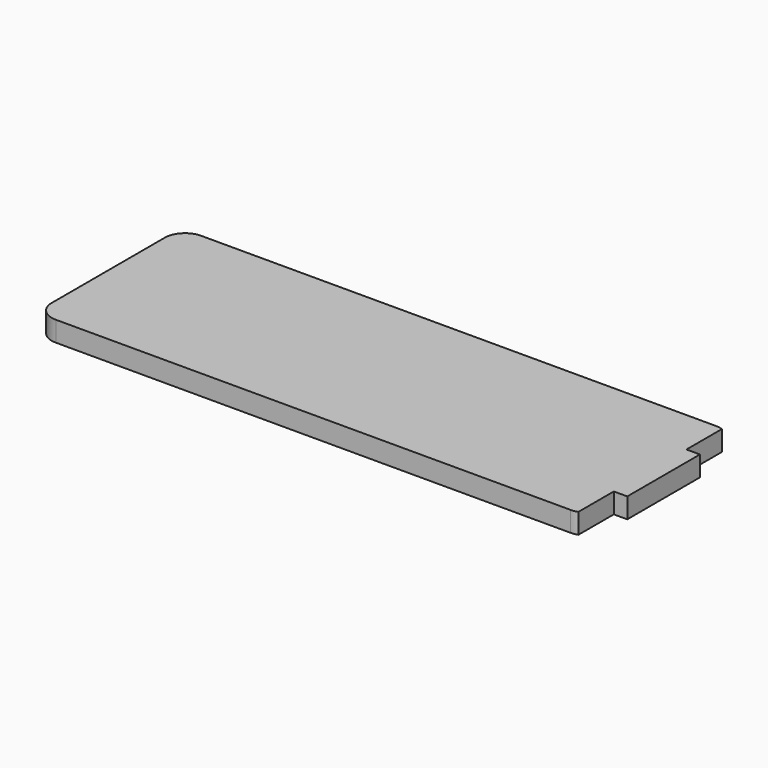
from build123d import *

# Parameters (mm, degrees)
F0_W     = 1047.75
F0_H     = 342.9
F1_DEPTH = 38.1
F2_R     = 38.1
F3_W     = 25.4
F3_H     = 85.725
F4_DEPTH = 50.8


with BuildPart() as f1:
    # F0 (on Top) → F1 (new body)
    with BuildSketch(Plane.XY):
        Rectangle(F0_W, F0_H)
    extrude(amount=F1_DEPTH)

    # F2
    f2_edges = [f1.edges().sort_by_distance(p)[0] for p in [
        (-523.875, 171.45, 19.05),
        (-523.875, -171.45, 19.05),
        (523.875, 171.45, 19.05),
        (523.875, -171.45, 19.05),
    ]]
    fillet(f2_edges, radius=F2_R)

    # F3 (on face) → F4 (cut)
    with BuildSketch(Plane.XY.offset(38.1)):
        with Locations((511.175, 128.5875)):
            Rectangle(F3_W, F3_H)
        with Locations((511.175, -128.5875)):
            Rectangle(F3_W, F3_H)
    extrude(amount=-F4_DEPTH, mode=Mode.SUBTRACT)


solid = f1.part
